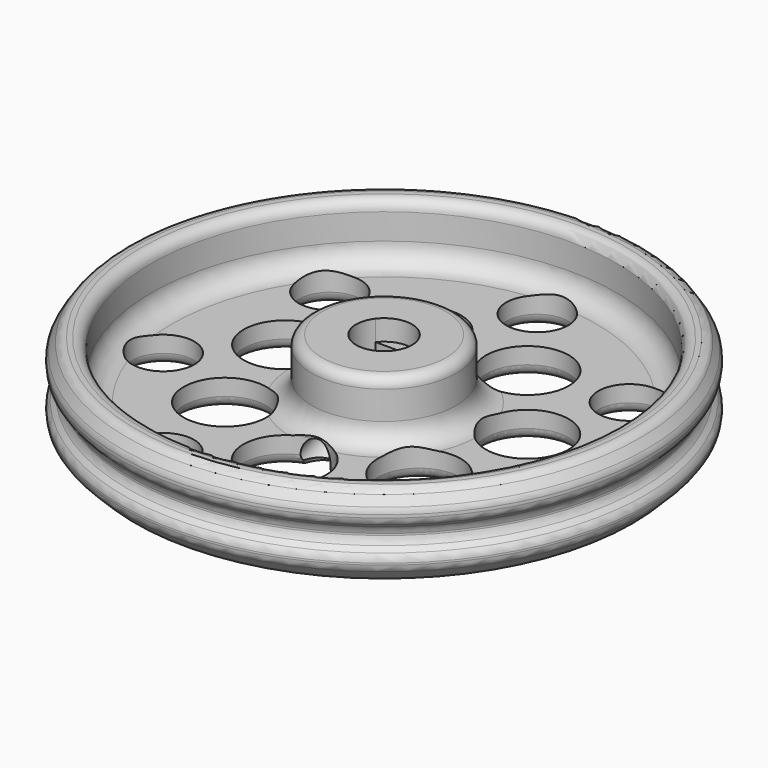
from build123d import *

# Parameters (mm, degrees)
CYLINDER_R               = 1.45
CYLINDER_DEPTH           = 50
CYLINDER_PLACEMENT_ANGLE = 110
FILLET_R                 = 1
FILLET001_R              = 1
POCKET_DEPTH             = 8
SKETCH002_R              = 2.7
POCKET001_DEPTH          = 2
SKETCH003_R              = 4
SKETCH003_R_2            = 3
POCKET002_DEPTH          = 147.691395
POCKET002_DEPTH_BACK     = 150.941395
POLARPATTERN_COUNT       = 7
CHAMFER_SIZE             = 0.5
FILLET002_R              = 1


with BuildPart() as cilindro:
    # Cylinder → Cylinder (new body)
    with BuildSketch(Plane.XY):
        Circle(CYLINDER_R)
    extrude(amount=CYLINDER_DEPTH)


with BuildPart() as cilindro_1:
    # Cylinder placement: moved
    add(cilindro.part.moved(Location((0, 0, 4))).rotate(Axis((0, 0, 4), (1, 0, 0)), CYLINDER_PLACEMENT_ANGLE))


with BuildPart() as fillet002:
    # Sketch → Revolution (revolve)
    with BuildSketch(Plane.XZ):
        with BuildLine():
            Line((0, 0), (0, 8.25))
            Line((0, 8.25), (6, 8.25))
            ThreePointArc((7, 7.25), (6.707107, 7.957107), (6, 8.25))
            Line((7, 7.25), (7, 4.5))
            ThreePointArc((7, 4.5), (7.585787, 3.085786), (9, 2.5))
            Line((9, 2.5), (20.5, 2.5))
            ThreePointArc((20.5, 2.5), (21.914214, 3.085787), (22.5, 4.500001))
            Line((22.5, 4.500001), (22.5, 7))
            ThreePointArc((23.5, 8), (22.792893, 7.707107), (22.5, 7))
            Line((24.5, 8), (23.5, 8))
            Line((25.5, 6.5), (24.5, 8))
            Line((25.5, 5.5), (25.5, 6.5))
            Line((24.5, 4.5), (25.5, 5.5))
            Line((24.5, 3.5), (24.5, 4.5))
            Line((25.5, 2.5), (24.5, 3.5))
            Line((25.5, 1.5), (25.5, 2.5))
            Line((24, 0), (25.5, 1.5))
            Line((0, 0), (24, 0))
        make_face()
    revolve(axis=Axis((0, 0, 0), (0, 0, 1)))

    # Fillet
    fillet_edges = [fillet002.edges().sort_by_distance(p)[0] for p in [
        (-25.5, 0, 1.5),
        (-25.5, 0, 2.5),
        (-24.5, 0, 3.5),
        (-24.5, 0, 4.5),
        (-25.5, 0, 5.5),
        (-25.5, 0, 6.5),
    ]]
    fillet(fillet_edges, radius=FILLET_R)

    # Fillet001
    fillet001_edges = [fillet002.edges().sort_by_distance(p)[0] for p in [
        (-24.5, 0, 8),
    ]]
    fillet(fillet001_edges, radius=FILLET001_R)

    # Sketch001 → Pocket (cut)
    with BuildSketch(Plane(origin=(0, 0, 8.25), x_dir=(-1, 0, 0), z_dir=(0, 0, 1))):
        with BuildLine():
            ThreePointArc((-2.137171, 1.65), (-2.7, 0), (-2.137171, -1.65))
            Line((-2.137171, -1.65), (2.137171, -1.65))
            ThreePointArc((2.137171, -1.65), (2.7, 0), (2.137171, 1.65))
            Line((-2.137171, 1.65), (2.137171, 1.65))
        make_face()
    extrude(amount=-POCKET_DEPTH, mode=Mode.SUBTRACT)

    # Sketch002 → Pocket001 (cut)
    with BuildSketch(Plane(origin=(0, 0, 8.25), x_dir=(-1, 0, 0), z_dir=(0, 0, 1))):
        Circle(SKETCH002_R)
    extrude(amount=-POCKET001_DEPTH, mode=Mode.SUBTRACT)

    # Cut: cut Cilindro
    add(cilindro_1.part, mode=Mode.SUBTRACT)

    # Sketch003 → Pocket002 (cut, two sides)
    with BuildSketch(Plane.XY.offset(2.5)) as pocket002_sk:
        with Locations((0, -12)):
            Circle(SKETCH003_R)
        with Locations((-8.026849, -16.667924)):
            Circle(SKETCH003_R_2)
    pocket002 = extrude(amount=-POCKET002_DEPTH, mode=Mode.SUBTRACT) + extrude(pocket002_sk.sketch, amount=POCKET002_DEPTH_BACK, mode=Mode.SUBTRACT)

    # PolarPattern: Pocket002 ×7 about axis
    polarpattern_axis = Axis((0, 0, 2.5), (0, 0, 1))
    for i in range(1, POLARPATTERN_COUNT):
        add(pocket002.rotate(polarpattern_axis, i * 360 / POLARPATTERN_COUNT), mode=Mode.SUBTRACT)

    # Chamfer
    chamfer_edges = [fillet002.edges().sort_by_distance(p)[0] for p in [
        (1e-05, -6.750393, 0),
        (-2.418351, -15.186154, 0),
        (3.186154, -9.581649, 0),
        (6.15638, -19.013418, 0),
        (-11.875937, -4.354552, 0),
        (-11.026849, -16.667924, 0),
        (8.81048, 9.076091, 0),
        (-1.602729, 12.547161, 0),
        (-13.79632, 14.459345, 0),
        (18.703729, -7.041421, 0),
        (6.888019, -10.609204, 0),
        (12.589219, -1.22946, 0),
        (17.166789, 10.23291, 0),
        (-10.809051, 6.569963, 0),
        (-19.906636, -1.771143, 0),
        (2.702907, 19.801651, 0),
    ]]
    chamfer(chamfer_edges, length=CHAMFER_SIZE)

    # Fillet002
    fillet002_edges = [fillet002.edges().sort_by_distance(p)[0] for p in [
        (-2.292691, -15.277738, 0.5),
        (18.703729, -7.041421, 0.5),
        (6.15638, -19.013418, 0.5),
        (-11.026849, -16.667924, 0.5),
        (-19.906636, -1.771143, 0.5),
        (-13.79632, 14.459345, 0.5),
        (2.702907, 19.801651, 0.5),
        (17.166789, 10.23291, 0.5),
        (6.888019, -10.609204, 0.5),
        (12.589219, -1.22946, 0.5),
        (8.81048, 9.076091, 0.5),
        (-1.602729, 12.547161, 0.5),
        (-10.809051, 6.569963, 0.5),
        (-11.875937, -4.354552, 0.5),
    ]]
    fillet(fillet002_edges, radius=FILLET002_R)


solid = fillet002.part
